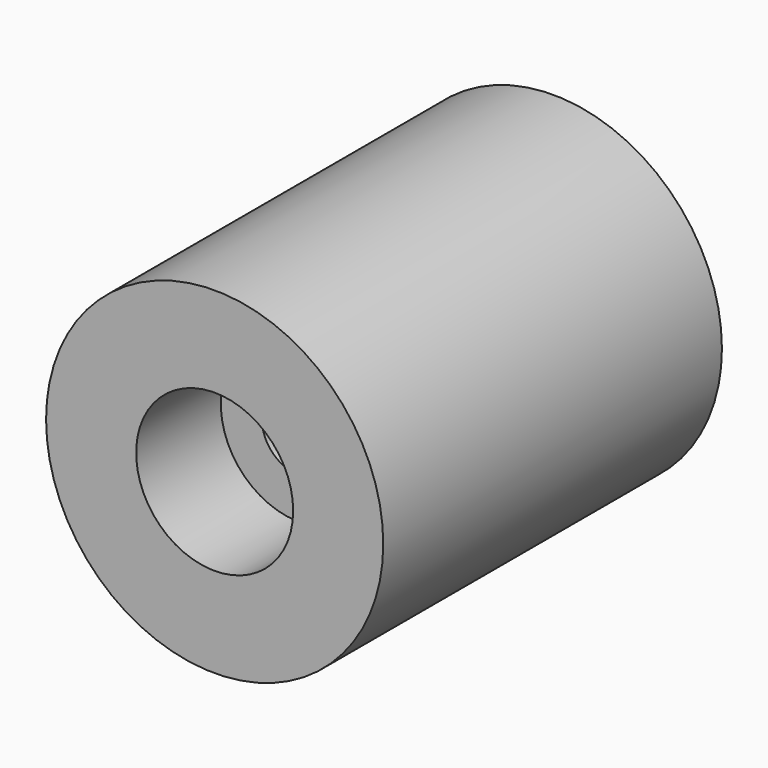
from build123d import *

# Parameters (mm, degrees)
F0_R     = 10.115
F0_R_2   = 4.71
F1_DEPTH = 25.4
F0_R_3   = 2.25
F2_DEPTH = 19.05
F3_DEPTH = 3.034123


with BuildPart() as f1:
    # F0 (on Front) → F1 (new body)
    with BuildSketch(Plane.XZ):
        Circle(F0_R)
        Circle(F0_R_2, mode=Mode.SUBTRACT)
    extrude(amount=F1_DEPTH)

    # F0 (on Front) → F2 (join)
    with BuildSketch(Plane.XZ):
        Circle(F0_R_2)
        Circle(F0_R_3, mode=Mode.SUBTRACT)
    extrude(amount=F2_DEPTH)

    # F0 (on Front) → F3 (cut)
    with BuildSketch(Plane.XZ):
        Circle(F0_R_2)
        Circle(F0_R_3, mode=Mode.SUBTRACT)
    extrude(amount=F3_DEPTH, mode=Mode.SUBTRACT)


solid = f1.part
